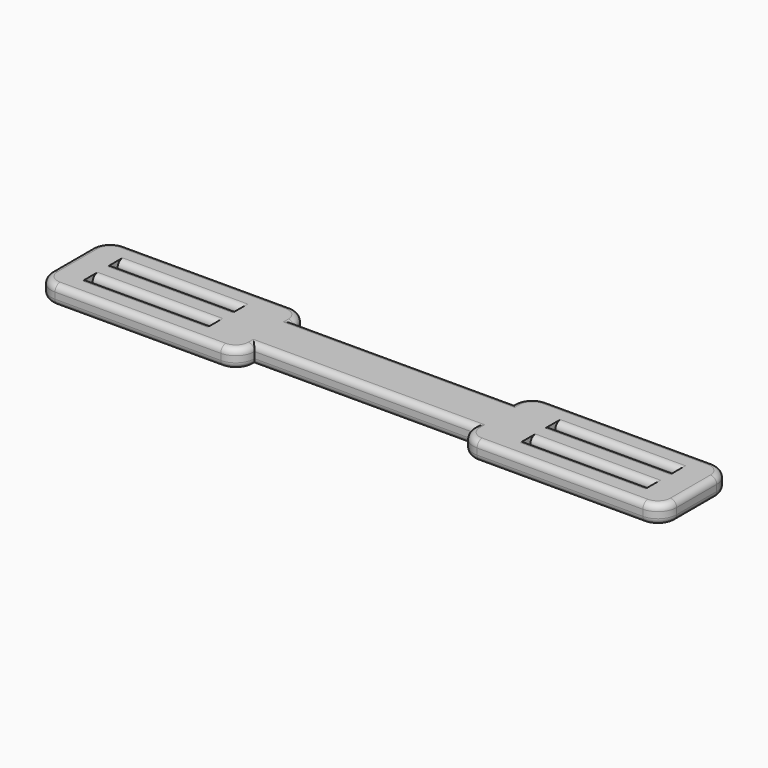
from build123d import *

# Parameters (mm, degrees)
BOX003_W     = 40
BOX003_H     = 2
BOX003_DEPTH = 10
BOX004_W     = 40
BOX004_H     = 2
BOX004_DEPTH = 10
BOX002_W     = 40
BOX002_H     = 2
BOX002_DEPTH = 10
BOX005_W     = 70
BOX005_H     = 6
BOX005_DEPTH = 10
BOX006_W     = 70
BOX006_H     = 6
BOX006_DEPTH = 10
BOX001_W     = 40
BOX001_H     = 2
BOX001_DEPTH = 10
BOX_W        = 200
BOX_H        = 28
BOX_DEPTH    = 6
FILLET_R     = 5.99
FILLET001_R  = 2


with BuildPart() as cube003:
    # Box003 → Box003 (new body)
    with BuildSketch(Plane(origin=(40, -6, 0), x_dir=(1, 0, 0), z_dir=(0, 0, 1))):
        with Locations((20, 1)):
            Rectangle(BOX003_W, BOX003_H)
    extrude(amount=BOX003_DEPTH)


with BuildPart() as cube004:
    # Box004 → Box004 (new body)
    with BuildSketch(Plane(origin=(40, 4, 0), x_dir=(1, 0, 0), z_dir=(0, 0, 1))):
        with Locations((20, 1)):
            Rectangle(BOX004_W, BOX004_H)
    extrude(amount=BOX004_DEPTH)


with BuildPart() as cube002:
    # Box002 → Box002 (new body)
    with BuildSketch(Plane(origin=(-100, 4, 0), x_dir=(1, 0, 0), z_dir=(0, 0, 1))):
        with Locations((20, 1)):
            Rectangle(BOX002_W, BOX002_H)
    extrude(amount=BOX002_DEPTH)


with BuildPart() as cube005:
    # Box005 → Box005 (new body)
    with BuildSketch(Plane(origin=(-45, -14, 0), x_dir=(1, 0, 0), z_dir=(0, 0, 1))):
        with Locations((35, 3)):
            Rectangle(BOX005_W, BOX005_H)
    extrude(amount=BOX005_DEPTH)


with BuildPart() as cube006:
    # Box006 → Box006 (new body)
    with BuildSketch(Plane(origin=(-45, 8, 0), x_dir=(1, 0, 0), z_dir=(0, 0, 1))):
        with Locations((35, 3)):
            Rectangle(BOX006_W, BOX006_H)
    extrude(amount=BOX006_DEPTH)


with BuildPart() as holes:
    # Box001 → Box001 (new body)
    with BuildSketch(Plane(origin=(-100, -6, 0), x_dir=(1, 0, 0), z_dir=(0, 0, 1))):
        with Locations((20, 1)):
            Rectangle(BOX001_W, BOX001_H)
    extrude(amount=BOX001_DEPTH)

    # Fusion: union Cube003, Cube004, Cube002, Cube005, Cube006
    add(cube003.part)
    add(cube004.part)
    add(cube002.part)
    add(cube005.part)
    add(cube006.part)


with BuildPart() as fillet001:
    # Box → Box (new body)
    with BuildSketch(Plane(origin=(-110, -14, 0), x_dir=(1, 0, 0), z_dir=(0, 0, 1))):
        with Locations((100, 14)):
            Rectangle(BOX_W, BOX_H)
    extrude(amount=BOX_DEPTH)

    # Cut: cut Holes
    add(holes.part, mode=Mode.SUBTRACT)

    # Fillet
    fillet_edges = [fillet001.edges().sort_by_distance(p)[0] for p in [
        (-110, -14, 3),
        (-110, 14, 3),
        (-45, -14, 3),
        (-45, 14, 3),
        (25, 14, 3),
        (90, 14, 3),
        (90, -14, 3),
        (25, -14, 3),
    ]]
    fillet(fillet_edges, radius=FILLET_R)

    # Fillet001
    fillet001_edges = [fillet001.edges().sort_by_distance(p)[0] for p in [
        (-110, 0, 6),
        (-110, 0, 0),
        (-77.5, 14, 6),
        (-108.24557, 12.24557, 6),
        (-46.75443, 12.24557, 6),
        (-108.24557, -12.24557, 6),
        (-10, 8, 6),
        (-77.5, -14, 6),
        (-46.75443, -12.24557, 6),
        (26.75443, 12.24557, 6),
        (57.5, 14, 6),
        (-10, -8, 6),
        (88.24557, 12.24557, 6),
        (90, 0, 6),
        (26.75443, -12.24557, 6),
        (88.24557, -12.24557, 6),
        (57.5, -14, 6),
        (-80, -6, 6),
        (-80, -4, 6),
        (-80, 4, 6),
        (-80, 6, 6),
        (60, 4, 6),
        (60, 6, 6),
        (60, -6, 6),
        (60, -4, 6),
        (-108.24557, -12.24557, 0),
        (-108.24557, 12.24557, 0),
        (-77.5, 14, 0),
        (-46.75443, 12.24557, 0),
        (-10, 8, 0),
        (-77.5, -14, 0),
        (-46.75443, -12.24557, 0),
        (26.75443, 12.24557, 0),
        (57.5, 14, 0),
        (-10, -8, 0),
        (88.24557, 12.24557, 0),
        (90, 0, 0),
        (26.75443, -12.24557, 0),
        (88.24557, -12.24557, 0),
        (57.5, -14, 0),
        (-80, -6, 0),
        (-80, -4, 0),
        (-80, 4, 0),
        (-80, 6, 0),
        (60, 4, 0),
        (60, 6, 0),
        (60, -6, 0),
        (60, -4, 0),
    ]]
    fillet(fillet001_edges, radius=FILLET001_R)


solid = fillet001.part
